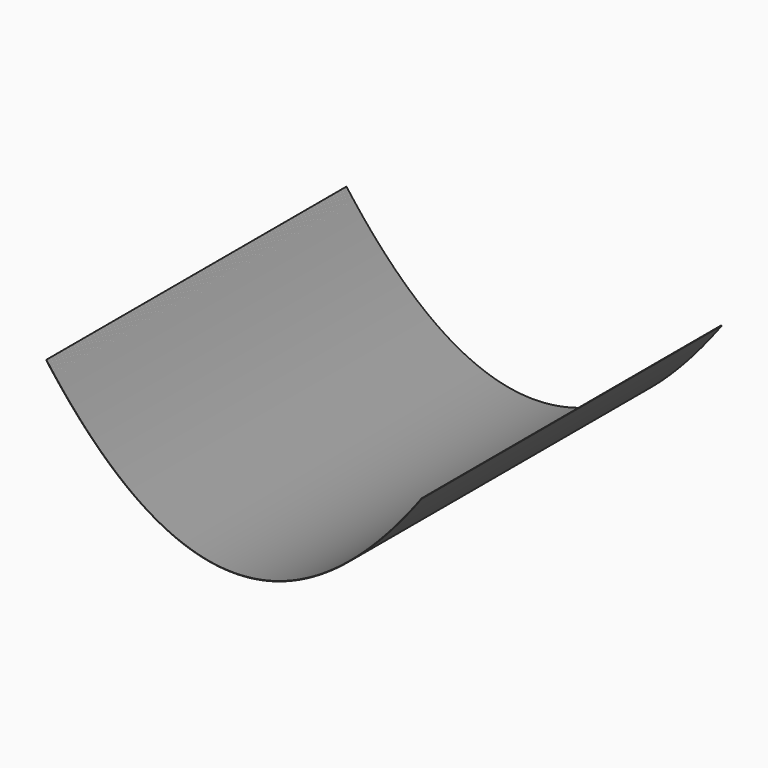
from build123d import *

# Parameters (mm, degrees)
F1_DEPTH = 1000


with BuildPart() as f1:
    # F0 (on Front) → F1 (new body)
    with BuildSketch(Plane.XZ):
        Polygon((-498.888888, 167.001713), (-500, 168.497827), (-500.802819, 167.901601), (-499.691389, 166.405059), (-498.57964, 164.911417), (-497.467888, 163.421101), (-496.356134, 161.934112), (-495.244376, 160.450448), (-494.132616, 158.970112), (-493.020852, 157.493104), (-491.909086, 156.019421), (-490.797317, 154.549065), (-489.685546, 153.082035), (-488.573771, 151.618332), (-487.461994, 150.157956), (-486.350213, 148.700906), (-485.238431, 147.247183), (-484.126644, 145.796787), (-483.014856, 144.349717), (-481.903063, 142.905973), (-480.791269, 141.465557), (-479.67947, 140.028466), (-478.56767, 138.594703), (-477.455865, 137.164266), (-476.344059, 135.737156), (-475.232248, 134.313372), (-474.120436, 132.892915), (-473.008619, 131.475785), (-471.8968, 130.06198), (-470.784978, 128.651504), (-469.673153, 127.244353), (-468.561324, 125.840529), (-467.449493, 124.440031), (-466.337657, 123.042861), (-465.22582, 121.649017), (-464.113978, 120.258499), (-463.002134, 118.871307), (-461.890286, 117.487443), (-460.778436, 116.106905), (-459.666581, 114.729693), (-458.554724, 113.355809), (-457.442863, 111.985251), (-456.330999, 110.618019), (-455.219132, 109.254114), (-454.107261, 107.893536), (-452.995387, 106.536284), (-451.88351, 105.182359), (-450.771629, 103.831761), (-449.659745, 102.484488), (-448.547857, 101.140542), (-447.435967, 99.799924), (-446.324072, 98.462632), (-445.212175, 97.128667), (-444.100273, 95.798027), (-442.988368, 94.470714), (-441.876459, 93.146729), (-440.764548, 91.82607), (-439.652632, 90.508737), (-438.540713, 89.194731), (-437.42879, 87.884052), (-436.316864, 86.576698), (-435.204934, 85.272672), (-434.093001, 83.971973), (-432.981063, 82.6746), (-431.869123, 81.380553), (-430.757178, 80.089833), (-429.64523, 78.802439), (-428.533278, 77.518373), (-427.421323, 76.237633), (-426.309363, 74.96022), (-425.1974, 73.686133), (-424.085432, 72.415373), (-422.973462, 71.147939), (-421.861487, 69.883832), (-420.749509, 68.623052), (-419.637526, 67.365598), (-418.52554, 66.111471), (-417.413549, 64.86067), (-416.301555, 63.613196), (-415.189557, 62.36905), (-414.077555, 61.128228), (-412.965549, 59.890735), (-411.853539, 58.656567), (-410.741524, 57.425726), (-409.629507, 56.198213), (-408.517484, 54.974026), (-407.405458, 53.753165), (-406.293427, 52.535631), (-405.181393, 51.321423), (-404.069354, 50.110543), (-402.957312, 48.902989), (-401.845264, 47.698761), (-400.733214, 46.497861), (-399.621158, 45.300286), (-398.509098, 44.106039), (-397.397034, 42.915119), (-396.284966, 41.727524), (-395.172893, 40.543257), (-394.060817, 39.362317), (-392.948735, 38.184702), (-391.83665, 37.010415), (-390.72456, 35.839455), (-389.612466, 34.671821), (-388.500367, 33.507514), (-387.388264, 32.346534), (-386.276156, 31.18888), (-385.164044, 30.034553), (-384.051927, 28.883553), (-382.939807, 27.73588), (-381.827681, 26.591534), (-380.715551, 25.450514), (-379.603415, 24.312821), (-378.491277, 23.178455), (-377.379132, 22.047415), (-376.266984, 20.919702), (-375.15483, 19.795317), (-374.042672, 18.674257), (-372.930509, 17.556525), (-371.818342, 16.442119), (-370.706169, 15.33104), (-369.593993, 14.223289), (-368.48181, 13.118864), (-367.369624, 12.017766), (-366.257432, 10.919994), (-365.145236, 9.82555), (-364.033035, 8.734432), (-362.920829, 7.646641), (-361.808617, 6.562178), (-360.696402, 5.48104), (-359.58418, 4.403231), (-358.471955, 3.328747), (-357.359723, 2.257591), (-356.247488, 1.189762), (-355.135246, 0.125259), (-354.023, -0.935916), (-352.910748, -1.993765), (-351.798492, -3.048286), (-350.686231, -4.099481), (-349.573964, -5.147349), (-348.461692, -6.19189), (-347.349415, -7.233103), (-346.237132, -8.27099), (-345.124845, -9.305549), (-344.012552, -10.336781), (-342.900254, -11.364687), (-341.78795, -12.389266), (-340.675641, -13.410517), (-339.563327, -14.428441), (-338.451007, -15.443039), (-337.338682, -16.454308), (-336.226352, -17.462251), (-335.114015, -18.466867), (-334.001674, -19.468156), (-332.889327, -20.466117), (-331.776975, -21.460752), (-330.664616, -22.45206), (-329.552253, -23.440039), (-328.439883, -24.424692), (-327.327509, -25.406018), (-326.215128, -26.384016), (-325.102742, -27.358687), (-323.99035, -28.330031), (-322.877953, -29.298048), (-321.765549, -30.262738), (-320.653141, -31.224099), (-319.540725, -32.182134), (-318.428305, -33.136841), (-317.315878, -34.088221), (-316.203446, -35.036274), (-315.091008, -35.981), (-313.978564, -36.922398), (-312.866113, -37.860468), (-311.753658, -38.795211), (-310.641196, -39.726627), (-309.528728, -40.654715), (-308.416254, -41.579475), (-307.303775, -42.500909), (-306.191288, -43.419015), (-305.078796, -44.333793), (-303.966298, -45.245243), (-302.853794, -46.153367), (-301.741283, -47.058162), (-300.628767, -47.95963), (-299.516244, -48.85777), (-298.403715, -49.752583), (-297.29118, -50.644068), (-296.178639, -51.532225), (-295.06609, -52.417054), (-293.953537, -53.298557), (-292.840976, -54.176731), (-291.72841, -55.051577), (-290.615836, -55.923095), (-289.503257, -56.791287), (-288.390671, -57.656149), (-287.278079, -58.517685), (-286.16548, -59.375892), (-285.052875, -60.230771), (-283.940263, -61.082323), (-282.827645, -61.930546), (-281.71502, -62.775442), (-280.602389, -63.617009), (-279.489751, -64.455249), (-278.377107, -65.29016), (-277.264455, -66.121744), (-276.151798, -66.949999), (-275.039133, -67.774926), (-273.926462, -68.596526), (-272.813784, -69.414797), (-271.7011, -70.229739), (-270.588408, -71.041355), (-269.475711, -71.849641), (-268.363005, -72.6546), (-267.250294, -73.456229), (-266.137575, -74.254531), (-265.02485, -75.049505), (-263.912117, -75.84115), (-262.799379, -76.629466), (-261.686632, -77.414455), (-260.57388, -78.196114), (-259.46112, -78.974445), (-258.348353, -79.749448), (-257.235579, -80.521122), (-256.122799, -81.289469), (-255.01001, -82.054485), (-253.897216, -82.816174), (-252.784413, -83.574534), (-251.671605, -84.329565), (-250.558788, -85.081267), (-249.445965, -85.829641), (-248.333134, -86.574686), (-247.220297, -87.316403), (-246.107452, -88.05479), (-244.994601, -88.789848), (-243.881741, -89.521578), (-242.768875, -90.249979), (-241.656001, -90.975051), (-240.543121, -91.696794), (-239.430233, -92.415207), (-238.317338, -93.130293), (-237.204434, -93.842048), (-236.091525, -94.550475), (-234.978607, -95.255573), (-233.865683, -95.957341), (-232.75275, -96.65578), (-231.639812, -97.350889), (-230.526864, -98.04267), (-229.413911, -98.731121), (-228.300949, -99.416243), (-227.18798, -100.098035), (-226.075003, -100.776498), (-224.96202, -101.451632), (-223.849028, -102.123436), (-222.73603, -102.791911), (-221.623023, -103.457055), (-220.510009, -104.118871), (-219.396988, -104.777356), (-218.283959, -105.432512), (-217.170922, -106.084338), (-216.057879, -106.732834), (-214.944827, -107.378001), (-213.831767, -108.019838), (-212.718701, -108.658344), (-211.605626, -109.293522), (-210.492545, -109.925368), (-209.379455, -110.553886), (-208.266358, -111.179072), (-207.153253, -111.800929), (-206.040142, -112.419455), (-204.927021, -113.034653), (-203.813894, -113.646518), (-202.700758, -114.255054), (-201.587616, -114.86026), (-200.474465, -115.462135), (-199.361307, -116.060681), (-198.24814, -116.655895), (-197.134967, -117.247778), (-196.021786, -117.836332), (-194.908597, -118.421555), (-193.7954, -119.003447), (-192.682196, -119.582009), (-191.568984, -120.15724), (-190.455764, -120.729141), (-189.342536, -121.29771), (-188.229302, -121.862948), (-187.116058, -122.424856), (-186.002808, -122.983432), (-184.88955, -123.538679), (-183.776284, -124.090593), (-182.66301, -124.639177), (-181.549729, -125.18443), (-180.436439, -125.726351), (-179.323143, -126.264941), (-178.209838, -126.800201), (-177.096526, -127.332128), (-175.983206, -127.860724), (-174.869879, -128.385989), (-173.756544, -128.907923), (-172.643201, -129.426525), (-171.52985, -129.941795), (-170.416492, -130.453735), (-169.303126, -130.962341), (-168.189753, -131.467617), (-167.076371, -131.969561), (-165.962982, -132.468173), (-164.849586, -132.963453), (-163.736182, -133.455402), (-162.62277, -133.944018), (-161.509351, -134.429302), (-160.395924, -134.911255), (-159.282489, -135.389876), (-158.169047, -135.865163), (-157.055598, -136.337119), (-155.942141, -136.805743), (-154.828676, -137.271035), (-153.715203, -137.732994), (-152.601724, -138.19162), (-151.488237, -138.646914), (-150.374742, -139.098876), (-149.26124, -139.547505), (-148.147731, -139.992802), (-147.034213, -140.434767), (-145.920689, -140.873398), (-144.807157, -141.308696), (-143.693619, -141.740662), (-142.580072, -142.169295), (-141.466519, -142.594595), (-140.352957, -143.016562), (-139.239389, -143.435196), (-138.125813, -143.850497), (-137.01223, -144.262465), (-135.89864, -144.671099), (-134.785043, -145.076401), (-133.671438, -145.47837), (-132.557827, -145.877005), (-131.444208, -146.272307), (-130.330582, -146.664274), (-129.216949, -147.052909), (-128.10331, -147.43821), (-126.989662, -147.820178), (-125.876009, -148.198812), (-124.762347, -148.574112), (-123.64868, -148.946078), (-122.535006, -149.314711), (-121.421324, -149.68001), (-120.307635, -150.041975), (-119.193941, -150.400606), (-118.080239, -150.755903), (-116.96653, -151.107866), (-115.852815, -151.456495), (-114.739093, -151.80179), (-113.625364, -152.14375), (-112.51163, -152.482377), (-111.397887, -152.817669), (-110.28414, -153.149627), (-109.170385, -153.47825), (-108.056624, -153.803539), (-106.942856, -154.125494), (-105.829083, -154.444113), (-104.715302, -154.759399), (-103.601516, -155.071349), (-102.487723, -155.379965), (-101.373925, -155.685246), (-100.26012, -155.987192), (-99.146309, -156.285804), (-98.032492, -156.581081), (-96.918669, -156.873023), (-95.80484, -157.161629), (-94.691006, -157.446901), (-93.577164, -157.728838), (-92.463318, -158.007439), (-91.349465, -158.282705), (-90.235608, -158.554637), (-89.121743, -158.823232), (-88.007875, -159.088493), (-86.893999, -159.350418), (-85.78012, -159.609008), (-84.666233, -159.864262), (-83.552342, -160.116181), (-82.438445, -160.364764), (-81.324544, -160.610011), (-80.210637, -160.851923), (-79.096725, -161.0905), (-77.982807, -161.32574), (-76.868885, -161.557646), (-75.754957, -161.786214), (-74.641025, -162.011448), (-73.527087, -162.233345), (-72.413145, -162.451907), (-71.299198, -162.667132), (-70.185247, -162.879022), (-69.07129, -163.087575), (-67.95733, -163.292792), (-66.843364, -163.494674), (-65.729394, -163.693219), (-64.615419, -163.888427), (-63.501445, -164.080299), (-62.387466, -164.268835), (-61.273482, -164.454034), (-60.159495, -164.635898), (-59.045504, -164.814424), (-57.931508, -164.989615), (-56.817508, -165.161469), (-55.703505, -165.329986), (-54.589497, -165.495167), (-53.475486, -165.657011), (-52.361472, -165.815519), (-51.247454, -165.97069), (-50.133432, -166.122525), (-49.019407, -166.271024), (-47.905378, -166.416185), (-46.791346, -166.55801), (-45.677311, -166.696497), (-44.563273, -166.831649), (-43.449231, -166.963463), (-42.335186, -167.091941), (-41.221139, -167.217082), (-40.107088, -167.338885), (-38.993035, -167.457352), (-37.878979, -167.572482), (-36.76492, -167.684275), (-35.650859, -167.792731), (-34.536796, -167.897851), (-33.422729, -167.999633), (-32.30866, -168.098077), (-31.19459, -168.193186), (-30.080516, -168.284956), (-28.966441, -168.37339), (-27.852364, -168.458487), (-26.738285, -168.540247), (-25.624203, -168.618669), (-24.51012, -168.693754), (-23.396036, -168.765503), (-22.281948, -168.833914), (-21.16786, -168.898987), (-20.053772, -168.960724), (-18.93968, -169.019123), (-17.825587, -169.074184), (-16.711494, -169.125909), (-15.597399, -169.174296), (-14.483303, -169.219347), (-13.369206, -169.26106), (-12.255108, -169.299435), (-11.141009, -169.334473), (-10.02691, -169.366174), (-8.912809, -169.394538), (-7.798707, -169.419564), (-6.684606, -169.441252), (-5.570503, -169.459605), (-4.456399, -169.474619), (-3.342296, -169.486295), (-2.228193, -169.494635), (-1.114089, -169.499637), (1.5e-05, -169.501302), (1.114119, -169.499629), (2.228223, -169.494619), (3.342326, -169.486271), (4.456429, -169.474587), (5.570532, -169.459564), (6.684634, -169.441205), (7.798737, -169.419509), (8.912839, -169.394475), (10.026939, -169.366104), (11.141039, -169.334395), (12.255138, -169.299349), (13.369236, -169.260966), (14.483333, -169.219245), (15.597429, -169.174186), (16.711524, -169.125791), (17.825618, -169.074059), (18.93971, -169.018989), (20.053801, -168.960582), (21.16789, -168.898837), (22.281979, -168.833756), (23.396065, -168.765337), (24.51015, -168.693582), (25.624233, -168.618489), (26.738315, -168.540058), (27.852393, -168.458291), (28.966471, -168.373186), (30.080546, -168.284745), (31.194619, -168.192966), (32.30869, -168.09785), (33.422759, -167.999396), (34.536825, -167.897607), (35.650889, -167.79248), (36.76495, -167.684016), (37.879009, -167.572215), (38.993064, -167.457077), (40.107118, -167.338602), (41.221169, -167.216791), (42.335216, -167.091642), (43.44926, -166.963157), (44.563302, -166.831335), (45.67734, -166.696176), (46.791376, -166.55768), (47.905408, -166.415847), (49.019436, -166.270678), (50.133461, -166.122172), (51.247484, -165.97033), (52.361502, -165.81515), (53.475516, -165.656634), (54.589527, -165.494782), (55.703535, -165.329593), (56.817538, -165.161068), (57.931537, -164.989206), (59.045534, -164.814007), (60.159524, -164.635473), (61.273512, -164.453602), (62.387496, -164.268394), (63.501474, -164.079851), (64.615449, -163.887972), (65.729424, -163.692754), (66.843393, -163.494202), (67.957359, -163.292313), (69.07132, -163.087087), (70.185276, -162.878526), (71.299228, -162.666629), (72.413175, -162.451395), (73.527117, -162.232827), (74.641055, -162.010921), (75.754986, -161.785679), (76.868914, -161.557103), (77.982836, -161.325191), (79.096754, -161.089942), (80.210666, -160.851358), (81.324574, -160.609438), (82.438475, -160.364182), (83.552372, -160.115591), (84.666263, -159.863664), (85.780149, -159.608402), (86.894029, -159.349805), (88.007905, -159.087872), (89.121773, -158.822603), (90.235637, -158.554), (91.349495, -158.282061), (92.463348, -158.006787), (93.577193, -157.728177), (94.691035, -157.446233), (95.804869, -157.160953), (96.918699, -156.872339), (98.032521, -156.580389), (99.146338, -156.285105), (100.260149, -155.986486), (101.373955, -155.684531), (102.487753, -155.379242), (103.601545, -155.070619), (104.715332, -154.75866), (105.829112, -154.443367), (106.942885, -154.124739), (108.056653, -153.802777), (109.170414, -153.47748), (110.284169, -153.148849), (111.397917, -152.816883), (112.511659, -152.481583), (113.625393, -152.142949), (114.739122, -151.800981), (115.852844, -151.455678), (116.96656, -151.107041), (118.080268, -150.75507), (119.19397, -150.399765), (120.307664, -150.041127), (121.421354, -149.679153), (122.535034, -149.313846), (123.648709, -148.945206), (124.762376, -148.573232), (125.876038, -148.197924), (126.989692, -147.819281), (128.103338, -147.437306), (129.216971, -147.052), (130.330603, -146.663357), (131.444229, -146.271382), (132.557848, -145.876073), (133.67146, -145.47743), (134.785064, -145.075454), (135.898662, -144.670144), (137.012251, -144.261502), (138.125835, -143.849526), (139.23941, -143.434217), (140.352978, -143.015575), (141.466539, -142.5936), (142.580093, -142.168292), (143.693639, -141.739651), (144.807179, -141.307678), (145.92071, -140.872372), (147.034235, -140.433733), (148.147751, -139.991761), (149.261262, -139.546456), (150.374763, -139.097819), (151.488258, -138.645849), (152.601745, -138.190547), (153.715225, -137.731913), (154.828697, -137.269945), (155.942162, -136.804646), (157.055619, -136.336014), (158.169068, -135.864051), (159.28251, -135.388755), (160.395945, -134.910127), (161.509371, -134.428167), (162.622791, -133.942874), (163.736203, -133.45425), (164.849607, -132.962294), (165.963003, -132.467006), (167.076393, -131.968386), (168.189773, -131.466434), (169.303147, -130.961151), (170.416512, -130.452536), (171.529871, -129.940589), (172.643221, -129.425311), (173.756565, -128.906701), (174.869899, -128.38476), (175.983227, -127.859487), (177.096547, -127.330882), (178.209859, -126.798947), (179.323163, -126.26368), (180.436461, -125.725083), (181.549749, -125.183153), (182.663031, -124.637893), (183.776304, -124.089301), (184.88957, -123.537378), (186.002828, -122.982125), (187.116079, -122.42354), (188.229322, -121.861625), (189.342557, -121.296378), (190.455784, -120.727801), (191.569004, -120.155894), (192.682216, -119.580654), (193.795421, -119.002084), (194.908617, -118.420185), (196.021807, -117.834953), (197.134987, -117.246393), (198.248161, -116.654501), (199.361327, -116.059279), (200.474485, -115.460726), (201.587636, -114.858843), (202.700779, -114.253629), (203.813914, -113.645085), (204.927042, -113.033211), (206.040161, -112.418007), (207.153274, -111.799472), (208.266378, -111.177608), (209.379476, -110.552413), (210.492565, -109.923889), (211.605647, -109.292034), (212.718721, -108.656849), (213.831788, -108.018335), (214.944847, -107.37649), (216.057898, -106.731316), (217.170942, -106.082812), (218.283979, -105.430977), (219.397007, -104.775813), (220.510029, -104.11732), (221.623042, -103.455498), (222.736049, -102.790344), (223.849047, -102.121862), (224.962039, -101.450051), (226.075023, -100.77491), (227.188, -100.096439), (228.300968, -99.414638), (229.41393, -98.729508), (230.526884, -98.04105), (231.639831, -97.349262), (232.75277, -96.654144), (233.865702, -95.955696), (234.978626, -95.253921), (236.091544, -94.548816), (237.204454, -93.840381), (238.317357, -93.128617), (239.430252, -92.413525), (240.54314, -91.695103), (241.65602, -90.973352), (242.768895, -90.248272), (243.88176, -89.519864), (244.99462, -88.788127), (246.107471, -88.05306), (247.220316, -87.314665), (248.333154, -86.572941), (249.445984, -85.827888), (250.558807, -85.079507), (251.671624, -84.327796), (252.784432, -83.572756), (253.897235, -82.814389), (255.010029, -82.052692), (256.122817, -81.287668), (257.235583, -80.519324), (258.348357, -79.747643), (259.461123, -78.972632), (260.573884, -78.194293), (261.686636, -77.412626), (262.799383, -76.627629), (263.912121, -75.839305), (265.024854, -75.047652), (266.137579, -74.252671), (267.250298, -73.454361), (268.363009, -72.652724), (269.475714, -71.847758), (270.588412, -71.039464), (271.701104, -70.227841), (272.813788, -69.412891), (273.926466, -68.594611), (275.039137, -67.773005), (276.151802, -66.94807), (277.264459, -66.119806), (278.377111, -65.288215), (279.489755, -64.453295), (280.602393, -63.615049), (281.715024, -62.773473), (282.827649, -61.928569), (283.940267, -61.080338), (285.052879, -60.228779), (286.165484, -59.373892), (287.278083, -58.515677), (288.390675, -57.654134), (289.503261, -56.789263), (290.61584, -55.921065), (291.728413, -55.049538), (292.84098, -54.174684), (293.95354, -53.296502), (295.066094, -52.414993), (296.178642, -51.530156), (297.291183, -50.64199), (298.403719, -49.750497), (299.516247, -48.855678), (300.62877, -47.957529), (301.741287, -47.056053), (302.853797, -46.15125), (303.966301, -45.24312), (305.0788, -44.331661), (306.191291, -43.416875), (307.303778, -42.498761), (308.416257, -41.577321), (309.528731, -40.652553), (310.641199, -39.724456), (311.753661, -38.793032), (312.866116, -37.858282), (313.978567, -36.920204), (315.091011, -35.978798), (316.203449, -35.034065), (317.315881, -34.086005), (318.428308, -33.134617), (319.540728, -32.179902), (320.653144, -31.221859), (321.765552, -30.260489), (322.877956, -29.295792), (323.990353, -28.327768), (325.102745, -27.356415), (326.215131, -26.381737), (327.327512, -25.403731), (328.439886, -24.422397), (329.552256, -23.437737), (330.664619, -22.449749), (331.776978, -21.458434), (332.88933, -20.463792), (334.001677, -19.465822), (335.114018, -18.464526), (336.226355, -17.459903), (337.338685, -16.451952), (338.45101, -15.440674), (339.563329, -14.426069), (340.675644, -13.408137), (341.787953, -12.386877), (342.900257, -11.362291), (344.012554, -10.334378), (345.124848, -9.303137), (346.237135, -8.26857), (347.349418, -7.230677), (348.461695, -6.189455), (349.573967, -5.144906), (350.686233, -4.097031), (351.798495, -3.045828), (352.910751, -1.991299), (354.023003, -0.933443), (355.135249, 0.12774), (356.24749, 1.19225), (357.359726, 2.260087), (358.471957, 3.331251), (359.584183, 4.405742), (360.696404, 5.483561), (361.80862, 6.564705), (362.920831, 7.649176), (364.033037, 8.736975), (365.145239, 9.8281), (366.257435, 10.922553), (367.369627, 12.020332), (368.481813, 13.121439), (369.593995, 14.225871), (370.706172, 15.333631), (371.818344, 16.444717), (372.930511, 17.55913), (374.042675, 18.67687), (375.154832, 19.797937), (376.266986, 20.922331), (377.379134, 22.050051), (378.491279, 23.181099), (379.603418, 24.315472), (380.715553, 25.453173), (381.827683, 26.594201), (382.939809, 27.738556), (384.05193, 28.886237), (385.164047, 30.037245), (386.276158, 31.191579), (387.388266, 32.34924), (388.500369, 33.510228), (389.612468, 34.674544), (390.724562, 35.842184), (391.836653, 37.013153), (392.948737, 38.187448), (394.060819, 39.365069), (395.172896, 40.546018), (396.284969, 41.730293), (397.397036, 42.917895), (398.509101, 44.108824), (399.62116, 45.303079), (400.733216, 46.50066), (401.845267, 47.701569), (402.957314, 48.905804), (404.069356, 50.113365), (405.181395, 51.324255), (406.293429, 52.538469), (407.40546, 53.756011), (408.517486, 54.97688), (409.629509, 56.201074), (410.741527, 57.428597), (411.853541, 58.659445), (412.965551, 59.89362), (414.077557, 61.131122), (415.189559, 62.37195), (416.301557, 63.616105), (417.413551, 64.863587), (418.525542, 66.114395), (419.637528, 67.36853), (420.749511, 68.625991), (421.861489, 69.886779), (422.973464, 71.150894), (424.085434, 72.418335), (425.197402, 73.689104), (426.309365, 74.963198), (427.421325, 76.24062), (428.53328, 77.521367), (429.645232, 78.805442), (430.75718, 80.092843), (431.869125, 81.38357), (432.981065, 82.677624), (434.093003, 83.975005), (435.204936, 85.275713), (436.316866, 86.579746), (437.428792, 87.887108), (438.540715, 89.197794), (439.652634, 90.511808), (440.76455, 91.829149), (441.876461, 93.149816), (442.98837, 94.473809), (444.100274, 95.80113), (445.212176, 97.131777), (446.324074, 98.465751), (447.435969, 99.80305), (448.547859, 101.143677), (449.659747, 102.48763), (450.771631, 103.83491), (451.883512, 105.185516), (452.995389, 106.539449), (454.107263, 107.896708), (455.219133, 109.257295), (456.331001, 110.621207), (457.442865, 111.988447), (458.554726, 113.359012), (459.666583, 114.732905), (460.778437, 116.110124), (461.890288, 117.49067), (463.002136, 118.874542), (464.11398, 120.261741), (465.225821, 121.652267), (466.337659, 123.046119), (467.449494, 124.443297), (468.561325, 125.843802), (469.673154, 127.247634), (470.784979, 128.654793), (471.896802, 130.065278), (473.008621, 131.47909), (474.120437, 132.896227), (475.23225, 134.316693), (476.34406, 135.740484), (477.455867, 137.167602), (478.567671, 138.598046), (479.679472, 140.031817), (480.79127, 141.468916), (481.903065, 142.90934), (483.014857, 144.353091), (484.126646, 145.800169), (485.238432, 147.250573), (486.350215, 148.704303), (487.461996, 150.161361), (488.573773, 151.621746), (489.685547, 153.085455), (490.797319, 154.552493), (491.909088, 156.022857), (493.020853, 157.496548), (494.132617, 158.973564), (495.244377, 160.453908), (496.356135, 161.93758), (497.467889, 163.424576), (498.579642, 164.9149), (499.691391, 166.40855), (500.80282, 167.9051), (500, 168.501324), (498.888888, 167.005202), (497.777777, 165.512408), (496.666665, 164.022943), (495.555554, 162.536807), (494.444441, 161.053997), (493.33333, 159.574517), (492.222218, 158.098366), (491.111107, 156.625543), (489.999995, 155.156048), (488.888884, 153.689882), (487.777772, 152.227044), (486.666661, 150.767534), (485.555548, 149.311353), (484.444437, 147.858501), (483.333325, 146.408976), (482.222214, 144.96278), (481.111102, 143.519913), (479.999991, 142.080374), (478.888879, 140.644162), (477.777768, 139.21128), (476.666656, 137.781727), (475.555544, 136.355501), (474.444432, 134.932604), (473.333321, 133.513035), (472.222209, 132.096796), (471.111098, 130.683883), (469.999986, 129.2743), (468.888875, 127.868045), (467.777763, 126.465118), (466.666651, 125.06552), (465.555539, 123.66925), (464.444428, 122.276309), (463.333316, 120.886696), (462.222205, 119.500411), (461.111093, 118.117455), (459.999982, 116.737827), (458.88887, 115.361528), (457.777759, 113.988557), (456.666646, 112.618914), (455.555535, 111.2526), (454.444423, 109.889614), (453.333312, 108.529957), (452.2222, 107.173628), (451.111089, 105.820628), (449.999977, 104.470955), (448.888866, 103.124612), (447.777753, 101.781596), (446.666642, 100.44191), (445.55553, 99.105551), (444.444419, 97.772521), (443.333307, 96.442819), (442.222196, 95.116445), (441.111084, 93.793401), (439.999973, 92.473684), (438.888861, 91.157296), (437.777749, 89.844236), (436.666637, 88.534506), (435.555526, 87.228102), (434.444414, 85.925028), (433.333303, 84.625282), (432.222191, 83.328864), (431.11108, 82.035775), (429.999968, 80.746015), (428.888856, 79.459582), (427.777744, 78.176477), (426.666633, 76.896703), (425.555521, 75.620255), (424.44441, 74.347136), (423.333298, 73.077346), (422.222187, 71.810884), (421.111075, 70.54775), (419.999964, 69.287945), (418.888851, 68.031469), (417.77774, 66.77832), (416.666628, 65.5285), (415.555517, 64.282008), (414.444405, 63.038846), (413.333294, 61.799011), (412.222182, 60.562504), (411.111071, 59.329326), (409.999958, 58.099477), (408.888847, 56.872956), (407.777735, 55.649764), (406.666624, 54.429899), (405.555512, 53.213363), (404.444401, 52.000156), (403.333289, 50.790276), (402.222178, 49.583727), (401.111066, 48.380504), (399.999954, 47.18061), (398.888842, 45.984045), (397.777731, 44.790808), (396.666619, 43.600899), (395.555508, 42.414319), (394.444396, 41.231067), (393.333285, 40.051143), (392.222173, 38.874548), (391.111061, 37.701282), (389.999949, 36.531343), (388.888838, 35.364734), (387.777726, 34.201452), (386.666615, 33.041499), (385.555503, 31.884875), (384.444392, 30.731579), (383.33328, 29.581611), (382.222169, 28.434972), (381.111056, 27.291661), (379.999945, 26.151678), (378.888833, 25.015024), (377.777722, 23.881699), (376.66661, 22.751701), (375.555499, 21.625033), (374.444387, 20.501692), (373.333276, 19.38168), (372.222163, 18.264997), (371.111052, 17.151642), (369.99994, 16.041615), (368.888829, 14.934916), (367.777717, 13.831546), (366.666606, 12.731504), (365.555494, 11.634791), (364.444383, 10.541406), (363.333271, 9.45135), (362.222159, 8.364622), (361.111047, 7.281222), (359.999936, 6.201151), (358.888824, 5.124408), (357.777713, 4.050994), (356.666601, 2.980907), (355.55549, 1.91415), (354.444378, 0.850721), (353.333266, -0.209379), (352.222154, -1.266152), (351.111043, -2.319596), (349.999931, -3.369711), (348.88882, -4.416498), (347.777708, -5.459958), (346.666597, -6.500088), (345.555485, -7.536889), (344.444374, -8.570363), (343.333261, -9.600508), (342.22215, -10.627324), (341.111038, -11.650813), (339.999927, -12.670973), (338.888815, -13.687804), (337.777704, -14.701308), (336.666592, -15.711482), (335.555481, -16.718328), (334.444368, -17.721846), (333.333257, -18.722035), (332.222145, -19.718897), (331.111034, -20.712429), (329.999922, -21.702634), (328.888811, -22.689509), (327.777699, -23.673056), (326.666588, -24.653276), (325.555476, -25.630166), (324.444364, -26.603728), (323.333252, -27.573962), (322.222141, -28.540868), (321.111029, -29.504444), (319.999918, -30.464693), (318.888806, -31.421613), (317.777695, -32.375205), (316.666583, -33.325468), (315.555471, -34.272403), (314.444359, -35.216009), (313.333248, -36.156288), (312.222136, -37.093238), (311.111025, -38.026858), (309.999913, -38.957152), (308.888802, -39.884116), (307.77769, -40.807752), (306.666579, -41.72806), (305.555466, -42.645039), (304.444355, -43.55869), (303.333243, -44.469012), (302.222132, -45.376006), (301.11102, -46.279672), (299.999909, -47.180009), (298.888797, -48.077018), (297.777686, -48.970698), (296.666573, -49.86105), (295.555462, -50.748074), (294.44435, -51.631769), (293.333239, -52.512136), (292.222127, -53.389174), (291.111016, -54.262884), (289.999904, -55.133266), (288.888793, -56.000319), (287.777681, -56.864043), (286.666569, -57.72444), (285.555457, -58.581508), (284.444346, -59.435248), (283.333234, -60.285658), (282.222123, -61.132741), (281.111011, -61.976496), (279.9999, -62.816922), (278.888788, -63.654019), (277.777676, -64.487789), (276.666564, -65.318228), (275.555453, -66.145341), (274.444341, -66.969125), (273.33323, -67.78958), (272.222118, -68.606708), (271.111007, -69.420506), (269.999895, -70.230977), (268.888784, -71.038119), (267.777671, -71.841931), (266.66656, -72.642416), (265.555448, -73.439573), (264.444337, -74.233401), (263.333225, -75.023901), (262.222114, -75.811072), (261.111002, -76.594916), (259.999891, -77.37543), (258.888778, -78.152616), (257.777667, -78.926474), (256.666555, -79.697003), (255.555459, -80.464194), (254.444347, -81.228066), (253.333236, -81.988611), (252.222124, -82.745826), (251.111013, -83.499714), (249.999901, -84.250273), (248.888789, -84.997503), (247.777677, -85.741405), (246.666566, -86.481979), (245.555454, -87.219225), (244.444343, -87.953142), (243.333231, -88.68373), (242.22212, -89.41099), (241.111008, -90.134922), (239.999896, -90.855525), (238.888784, -91.5728), (237.777673, -92.286746), (236.666561, -92.997365), (235.55545, -93.704655), (234.444338, -94.408616), (233.333227, -95.109248), (232.222115, -95.806553), (231.111003, -96.500529), (229.999891, -97.191177), (228.88878, -97.878496), (227.777668, -98.562487), (226.666557, -99.243149), (225.555445, -99.920484), (224.444334, -100.594489), (223.333222, -101.265166), (222.222111, -101.932514), (221.110998, -102.596536), (219.999887, -103.257227), (218.888775, -103.91459), (217.777664, -104.568626), (216.666552, -105.219333), (215.555441, -105.866711), (214.444329, -106.510761), (213.333218, -107.151483), (212.222105, -107.788875), (211.110994, -108.422941), (209.999882, -109.053677), (208.888771, -109.681084), (207.777659, -110.305164), (206.666548, -110.925915), (205.555436, -111.543337), (204.444325, -112.157432), (203.333213, -112.768198), (202.222101, -113.375636), (201.110989, -113.979745), (199.999878, -114.580526), (198.888766, -115.177978), (197.777655, -115.772101), (196.666543, -116.362897), (195.555432, -116.950363), (194.44432, -117.534503), (193.333208, -118.115312), (192.222096, -118.692795), (191.110985, -119.266948), (189.999873, -119.837773), (188.888762, -120.405269), (187.77765, -120.969438), (186.666539, -121.530278), (185.555427, -122.087789), (184.444316, -122.641972), (183.333203, -123.192826), (182.222092, -123.740353), (181.11098, -124.28455), (179.999869, -124.82542), (178.888757, -125.362961), (177.777646, -125.897173), (176.666534, -126.428057), (175.555423, -126.955613), (174.44431, -127.47984), (173.333199, -128.000739), (172.222087, -128.518309), (171.110976, -129.032552), (169.999864, -129.543466), (168.888753, -130.05105), (167.777641, -130.555307), (166.66653, -131.056236), (165.555418, -131.553837), (164.444306, -132.048107), (163.333194, -132.539051), (162.222083, -133.026666), (161.110971, -133.510952), (159.99986, -133.99191), (158.888748, -134.46954), (157.777637, -134.943841), (156.666525, -135.414814), (155.555413, -135.882458), (154.444301, -136.346774), (153.33319, -136.807762), (152.222078, -137.265421), (151.110967, -137.719752), (149.999855, -138.170754), (148.888744, -138.618428), (147.777632, -139.062774), (146.666521, -139.503791), (145.555408, -139.94148), (144.444297, -140.37584), (143.333185, -140.806872), (142.222074, -141.234575), (141.110962, -141.65895), (139.999851, -142.079997), (138.888739, -142.497715), (137.777628, -142.912105), (136.666515, -143.323167), (135.555404, -143.7309), (134.444292, -144.135305), (133.333181, -144.536381), (132.222069, -144.934129), (131.110958, -145.328548), (129.999846, -145.719639), (128.888735, -146.107402), (127.777631, -146.491833), (126.666518, -146.872939), (125.555407, -147.250717), (124.444295, -147.625166), (123.333184, -147.996286), (122.222072, -148.364078), (121.110961, -148.728542), (119.999849, -149.089678), (118.888738, -149.447484), (117.777625, -149.801963), (116.666514, -150.153113), (115.555402, -150.500935), (114.444291, -150.845429), (113.333179, -151.186594), (112.222068, -151.52443), (111.110956, -151.858938), (109.999845, -152.190118), (108.888733, -152.517969), (107.777621, -152.842492), (106.666509, -153.163686), (105.555398, -153.481553), (104.444286, -153.796091), (103.333175, -154.1073), (102.222063, -154.41518), (101.110952, -154.719733), (99.99984, -155.020958), (98.888728, -155.318853), (97.777616, -155.61342), (96.666505, -155.904659), (95.555393, -156.19257), (94.444282, -156.477152), (93.33317, -156.758405), (92.222059, -157.03633), (91.110947, -157.310928), (89.999836, -157.582196), (88.888723, -157.850135), (87.777612, -158.114748), (86.6665, -158.376031), (85.555389, -158.633985), (84.444277, -158.888612), (83.333166, -159.13991), (82.222054, -159.387879), (81.110943, -159.632521), (79.99983, -159.873833), (78.888719, -160.111817), (77.777607, -160.346474), (76.666496, -160.577801), (75.555384, -160.8058), (74.444273, -161.030471), (73.333161, -161.251814), (72.22205, -161.469827), (71.110938, -161.684512), (69.999826, -161.89587), (68.888714, -162.103898), (67.777603, -162.308599), (66.666491, -162.50997), (65.55538, -162.708014), (64.444268, -162.902729), (63.33316, -163.094115), (62.222053, -163.282172), (61.110944, -163.466902), (59.999836, -163.648302), (58.888729, -163.826375), (57.777621, -164.001119), (56.666513, -164.172535), (55.555406, -164.340623), (54.444298, -164.505381), (53.33319, -164.666812), (52.222083, -164.824914), (51.110974, -164.979688), (49.999866, -165.131133), (48.888758, -165.27925), (47.777651, -165.424039), (46.666543, -165.565499), (45.555435, -165.703631), (44.444328, -165.838435), (43.33322, -165.969909), (42.222111, -166.098056), (41.111004, -166.222875), (39.999896, -166.344364), (38.888788, -166.462526), (37.777681, -166.577359), (36.666573, -166.688864), (35.555465, -166.79704), (34.444358, -166.901889), (33.33325, -167.003408), (32.222141, -167.101599), (31.111033, -167.196462), (29.999926, -167.287997), (28.888818, -167.376203), (27.77771, -167.46108), (26.666603, -167.54263), (25.555495, -167.620851), (24.444387, -167.695744), (23.333279, -167.767308), (22.222171, -167.835543), (21.111063, -167.90045), (19.999956, -167.96203), (18.888848, -168.02028), (17.77774, -168.075203), (16.666633, -168.126797), (15.555525, -168.175062), (14.444417, -168.219999), (13.333309, -168.261608), (12.222201, -168.299888), (11.111093, -168.33484), (9.999985, -168.366464), (8.888878, -168.394759), (7.77777, -168.419726), (6.666661, -168.441364), (5.555553, -168.459674), (4.444444, -168.474656), (3.333336, -168.486309), (2.222228, -168.494634), (1.11112, -168.499631), (1.1e-05, -168.501299), (-1.111097, -168.499639), (-2.222205, -168.49465), (-3.333313, -168.486333), (-4.444421, -168.474688), (-5.55553, -168.459714), (-6.666639, -168.441411), (-7.777747, -168.419781), (-8.888855, -168.394822), (-9.999963, -168.366534), (-11.11107, -168.334918), (-12.222178, -168.299974), (-13.333286, -168.261702), (-14.444394, -168.220101), (-15.555502, -168.175172), (-16.66661, -168.126914), (-17.777717, -168.075328), (-18.888825, -168.020414), (-19.999933, -167.962171), (-21.11104, -167.900599), (-22.222148, -167.8357), (-23.333256, -167.767473), (-24.444364, -167.695916), (-25.555472, -167.621031), (-26.66658, -167.542818), (-27.777688, -167.461276), (-28.888795, -167.376407), (-29.999903, -167.288208), (-31.111011, -167.196682), (-32.222118, -167.101826), (-33.333227, -167.003644), (-34.444335, -166.902132), (-35.555442, -166.797291), (-36.66655, -166.689122), (-37.777658, -166.577626), (-38.888765, -166.4628), (-39.999873, -166.344646), (-41.110981, -166.223165), (-42.222088, -166.098354), (-43.333197, -165.970215), (-44.444305, -165.838748), (-45.555413, -165.703952), (-46.66652, -165.565828), (-47.777628, -165.424376), (-48.888736, -165.279595), (-49.999843, -165.131485), (-51.110951, -164.980048), (-52.22206, -164.825282), (-53.333167, -164.667188), (-54.444275, -164.505765), (-55.555383, -164.341014), (-56.66649, -164.172935), (-57.777598, -164.001527), (-58.888706, -163.826791), (-59.999813, -163.648726), (-61.110921, -163.467333), (-62.22203, -163.282611), (-63.333138, -163.094562), (-64.444245, -162.903183), (-65.555357, -162.708477), (-66.666468, -162.510441), (-67.77758, -162.309077), (-68.888691, -162.104384), (-69.999803, -161.896364), (-71.110915, -161.685014), (-72.222027, -161.470337), (-73.333138, -161.252331), (-74.44425, -161.030996), (-75.555361, -160.806333), (-76.666473, -160.578342), (-77.777584, -160.347022), (-78.888696, -160.112374), (-79.999807, -159.874397), (-81.11092, -159.633093), (-82.222031, -159.388459), (-83.333143, -159.140498), (-84.444254, -158.889208), (-85.555366, -158.634589), (-86.666477, -158.376642), (-87.777589, -158.115367), (-88.8887, -157.850762), (-89.999813, -157.582831), (-91.110924, -157.31157), (-92.222036, -157.036981), (-93.333147, -156.759064), (-94.444259, -156.477818), (-95.55537, -156.193244), (-96.666482, -155.905341), (-97.777593, -155.61411), (-98.888705, -155.319551), (-99.999817, -155.021663), (-101.110929, -154.720446), (-102.22204, -154.415902), (-103.333152, -154.108029), (-104.444263, -153.796828), (-105.555375, -153.482298), (-106.666486, -153.164439), (-107.777598, -152.843252), (-108.88871, -152.518737), (-109.999822, -152.190894), (-111.110933, -151.859722), (-112.222045, -151.525222), (-113.333156, -151.187393), (-114.444268, -150.846236), (-115.555379, -150.50175), (-116.666491, -150.153936), (-117.777602, -149.802794), (-118.888715, -149.448323), (-119.999826, -149.090524), (-121.110938, -148.729397), (-122.222049, -148.364941), (-123.333161, -147.997156), (-124.444272, -147.626044), (-125.555384, -147.251603), (-126.666495, -146.873833), (-127.777608, -146.492735), (-128.888719, -146.108309), (-129.999831, -145.720554), (-131.110942, -145.329471), (-132.222054, -144.935059), (-133.333165, -144.537319), (-134.444277, -144.13625), (-135.555388, -143.731853), (-136.6665, -143.324128), (-137.777612, -142.913074), (-138.888724, -142.498692), (-139.999835, -142.080982), (-141.110947, -141.659943), (-142.222058, -141.235575), (-143.33317, -140.80788), (-144.444281, -140.376856), (-145.555393, -139.942504), (-146.666505, -139.504823), (-147.777617, -139.063813), (-148.888728, -138.619475), (-149.99984, -138.171809), (-151.110951, -137.720815), (-152.222063, -137.266492), (-153.333174, -136.808841), (-154.444286, -136.347861), (-155.555397, -135.883552), (-156.66651, -135.415916), (-157.777621, -134.944951), (-158.888733, -134.470658), (-159.999844, -133.993036), (-161.110956, -133.512085), (-162.222067, -133.027807), (-163.333179, -132.5402), (-164.44429, -132.049264), (-165.555403, -131.555001), (-166.666514, -131.057409), (-167.777626, -130.556488), (-168.888737, -130.052238), (-169.999849, -129.544662), (-171.11096, -129.033755), (-172.222072, -128.519521), (-173.333183, -128.001959), (-174.444295, -127.481067), (-175.555407, -126.956847), (-176.666519, -126.4293), (-177.77763, -125.898424), (-178.888742, -125.364219), (-179.999853, -124.826686), (-181.110965, -124.285824), (-182.222076, -123.741635), (-183.333188, -123.194116), (-184.4443, -122.64327), (-185.555412, -122.089094), (-186.666523, -121.531591), (-187.777635, -120.970759), (-188.888746, -120.406598), (-189.999858, -119.83911), (-191.110969, -119.268292), (-192.222081, -118.694147), (-193.333192, -118.116672), (-194.444305, -117.53587), (-195.555416, -116.951739), (-196.666528, -116.36428), (-197.777639, -115.773492), (-198.888751, -115.179377), (-199.999862, -114.581933), (-201.110974, -113.981159), (-202.222085, -113.377058), (-203.333198, -112.769628), (-204.444309, -112.158871), (-205.555421, -111.544783), (-206.666532, -110.927369), (-207.777644, -110.306626), (-208.888755, -109.682554), (-209.999867, -109.055154), (-211.110978, -108.424426), (-212.22209, -107.790368), (-213.333202, -107.152983), (-214.444314, -106.51227), (-215.555426, -105.868227), (-216.666537, -105.220857), (-217.777649, -104.570158), (-218.88876, -103.91613), (-219.999872, -103.258775), (-221.110983, -102.598091), (-222.222096, -101.934078), (-223.333207, -101.266737), (-224.444319, -100.596068), (-225.55543, -99.92207), (-226.666542, -99.244743), (-227.777653, -98.564089), (-228.888765, -97.880106), (-229.999876, -97.192795), (-231.110988, -96.502154), (-232.2221, -95.808186), (-233.333212, -95.11089), (-234.444323, -94.410265), (-235.555435, -93.706312), (-236.666546, -92.99903), (-237.777658, -92.288419), (-238.888769, -91.57448), (-239.999881, -90.857213), (-241.110993, -90.136618), (-242.222105, -89.412694), (-243.333216, -88.685442), (-244.444328, -87.954861), (-245.555439, -87.220952), (-246.666551, -86.483714), (-247.777662, -85.743148), (-248.888774, -84.999254), (-249.999886, -84.252031), (-251.110998, -83.50148), (-252.222109, -82.747601), (-253.333221, -81.990393), (-254.444332, -81.229856), (-255.555444, -80.465992), (-256.666555, -79.698798), (-257.777667, -78.928277), (-258.888778, -78.154427), (-259.999891, -77.377248), (-261.111002, -76.596742), (-262.222114, -75.812906), (-263.333225, -75.025743), (-264.444337, -74.235251), (-265.555448, -73.44143), (-266.66656, -72.644281), (-267.777671, -71.843804), (-268.888784, -71.039999), (-269.999895, -70.232865), (-271.111007, -69.422402), (-272.222118, -68.608611), (-273.33323, -67.791492), (-274.444341, -66.971044), (-275.555453, -66.147268), (-276.666564, -65.320163), (-277.777676, -64.489731), (-278.888788, -63.65597), (-279.9999, -62.81888), (-281.111011, -61.978462), (-282.222123, -61.134715), (-283.333234, -60.28764), (-284.444346, -59.437237), (-285.555457, -58.583505), (-286.666569, -57.726445), (-287.777681, -56.866056), (-288.888793, -56.00234), (-289.999904, -55.135294), (-291.111016, -54.26492), (-292.222127, -53.391218), (-293.333239, -52.514188), (-294.44435, -51.633828), (-295.555462, -50.750141), (-296.666573, -49.863125), (-297.777686, -48.972781), (-298.888797, -48.079108), (-299.999909, -47.182107), (-301.11102, -46.281778), (-302.222132, -45.37812), (-303.333243, -44.471133), (-304.444355, -43.560819), (-305.555466, -42.647176), (-306.666579, -41.730205), (-307.77769, -40.809904), (-308.888802, -39.886276), (-309.999913, -38.95932), (-311.111025, -38.029034), (-312.222136, -37.095421), (-313.333248, -36.158479), (-314.444359, -35.218208), (-315.555471, -34.27461), (-316.666583, -33.327682), (-317.777695, -32.377427), (-318.888806, -31.423843), (-319.999918, -30.466931), (-321.111029, -29.50669), (-322.222141, -28.543121), (-323.333252, -27.576223), (-324.444364, -26.605997), (-325.555476, -25.632442), (-326.666588, -24.65556), (-327.777699, -23.675348), (-328.888811, -22.691809), (-329.999922, -21.704941), (-331.111034, -20.714745), (-332.222145, -19.72122), (-333.333257, -18.724366), (-334.444368, -17.724185), (-335.555481, -16.720674), (-336.666592, -15.713836), (-337.777704, -14.70367), (-338.888815, -13.690174), (-339.999927, -12.673351), (-341.111038, -11.653199), (-342.22215, -10.629718), (-343.333261, -9.602909), (-344.444374, -8.572772), (-345.555485, -7.539306), (-346.666597, -6.502512), (-347.777708, -5.46239), (-348.88882, -4.418938), (-349.999931, -3.372159), (-351.111043, -2.322051), (-352.222154, -1.268616), (-353.333266, -0.21185), (-354.444378, 0.848242), (-355.55549, 1.911664), (-356.666601, 2.978413), (-357.777713, 4.048492), (-358.888824, 5.121899), (-359.999936, 6.198633), (-361.111047, 7.278697), (-362.222159, 8.362089), (-363.333271, 9.448809), (-364.444383, 10.538858), (-365.555494, 11.632235), (-366.666606, 12.72894), (-367.777717, 13.828974), (-368.888829, 14.932336), (-369.99994, 16.039027), (-371.111052, 17.149046), (-372.222163, 18.262394), (-373.333276, 19.379069), (-374.444387, 20.499074), (-375.555499, 21.622406), (-376.66661, 22.749067), (-377.777722, 23.879057), (-378.888833, 25.012375), (-379.999945, 26.149021), (-381.111056, 27.288996), (-382.222169, 28.432299), (-383.33328, 29.57893), (-384.444392, 30.72889), (-385.555503, 31.882178), (-386.666615, 33.038795), (-387.777726, 34.19874), (-388.888838, 35.362014), (-389.999949, 36.528616), (-391.111061, 37.698546), (-392.222173, 38.871805), (-393.333285, 40.048393), (-394.444396, 41.228308), (-395.555508, 42.411552), (-396.666619, 43.598125), (-397.777731, 44.788026), (-398.888842, 45.981255), (-399.999954, 47.177813), (-401.111066, 48.377699), (-402.222178, 49.580914), (-403.333289, 50.787456), (-404.444401, 51.997327), (-405.555512, 53.210527), (-406.666624, 54.427055), (-407.777735, 55.646912), (-408.888847, 56.870097), (-409.999958, 58.096609), (-411.111071, 59.326451), (-412.222182, 60.559622), (-413.333294, 61.79612), (-414.444405, 63.035948), (-415.555517, 64.279102), (-416.666628, 65.525586), (-417.77774, 66.775399), (-418.888851, 68.028539), (-419.999964, 69.285008), (-421.111075, 70.544805), (-422.222187, 71.807931), (-423.333298, 73.074386), (-424.44441, 74.344168), (-425.555521, 75.617279), (-426.666633, 76.893719), (-427.777744, 78.173486), (-428.888856, 79.456582), (-429.999968, 80.743007), (-431.11108, 82.03276), (-432.222191, 83.325842), (-433.333303, 84.622252), (-434.444414, 85.921989), (-435.555526, 87.225056), (-436.666637, 88.531452), (-437.777749, 89.841175), (-438.888861, 91.154227), (-439.999973, 92.470607), (-441.111084, 93.790316), (-442.222196, 95.113352), (-443.333307, 96.439718), (-444.444419, 97.769413), (-445.55553, 99.102435), (-446.666642, 100.438786), (-447.777753, 101.778464), (-448.888866, 103.121472), (-449.999977, 104.467808), (-451.111089, 105.817473), (-452.2222, 107.170465), (-453.333312, 108.526787), (-454.444423, 109.886436), (-455.555535, 111.249414), (-456.666646, 112.61572), (-457.777759, 113.985356), (-458.88887, 115.358318), (-459.999982, 116.73461), (-461.111093, 118.11423), (-462.222205, 119.497178), (-463.333316, 120.883456), (-464.444428, 122.273061), (-465.555539, 123.665994), (-466.666651, 125.062256), (-467.777763, 126.461847), (-468.888875, 127.864766), (-469.999986, 129.271013), (-471.111098, 130.680588), (-472.222209, 132.093493), (-473.333321, 133.509725), (-474.444432, 134.929286), (-475.555544, 136.352176), (-476.666656, 137.778393), (-477.777768, 139.207939), (-478.888879, 140.640813), (-479.999991, 142.077017), (-481.111102, 143.516548), (-482.222214, 144.959408), (-483.333325, 146.405596), (-484.444437, 147.855113), (-485.555548, 149.307958), (-486.666661, 150.764131), (-487.777772, 152.223632), (-488.888884, 153.686463), (-489.999995, 155.152622), (-491.111107, 156.622109), (-492.222218, 158.094924), (-493.33333, 159.571067), (-494.444441, 161.050539), (-495.555554, 162.533341), (-496.666665, 164.01947), (-497.777777, 165.508927), align=None)
    extrude(amount=F1_DEPTH)


solid = f1.part
